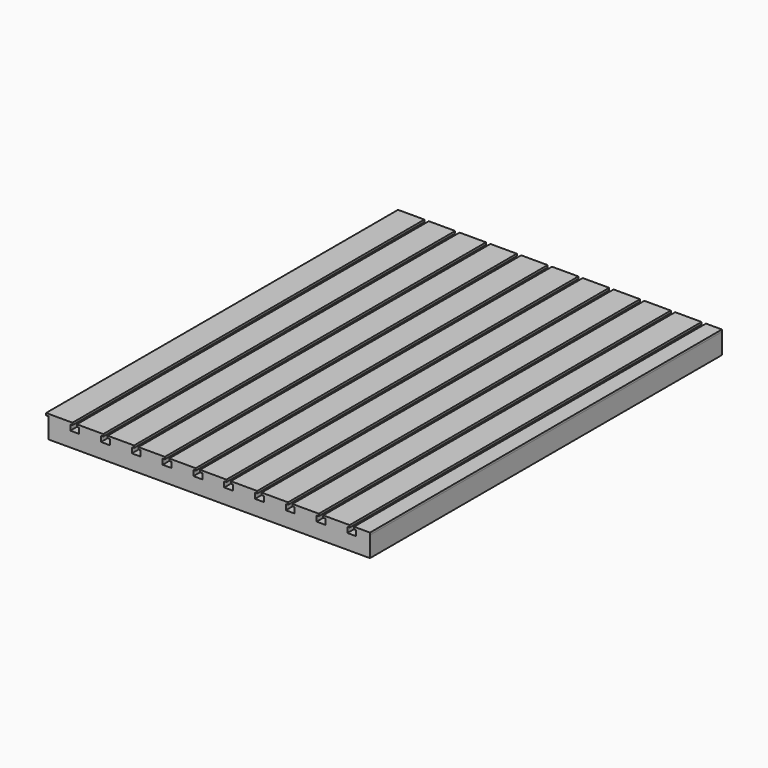
from build123d import *

# Parameters (mm, degrees)
F0_W     = 585
F0_H     = 800
F1_DEPTH = 37
F2_W     = 16
F2_H     = 800
F3_DEPTH = 10
F4_W     = 48
F4_H     = 800
F4_W_2   = 29.018198
F5_DEPTH = 4


with BuildPart() as f1:
    # F0 (on Top) → F1 (new body)
    with BuildSketch(Plane.XY):
        with Locations((-253.387954, 326.668771)):
            Rectangle(F0_W, F0_H)
    extrude(amount=F1_DEPTH)

    # F2 (on face) → F3 (cut)
    with BuildSketch(Plane.XY.offset(37)):
        with Locations((-497.887954, 326.668771)):
            Rectangle(F2_W, F2_H)
        with Locations((-441.887954, 326.668771)):
            Rectangle(F2_W, F2_H)
        with Locations((-385.887954, 326.668771)):
            Rectangle(F2_W, F2_H)
        with Locations((-329.887954, 326.668771)):
            Rectangle(F2_W, F2_H)
        with Locations((-273.887954, 326.668771)):
            Rectangle(F2_W, F2_H)
        with Locations((-217.887954, 326.668771)):
            Rectangle(F2_W, F2_H)
        with Locations((-161.887954, 326.668771)):
            Rectangle(F2_W, F2_H)
        with Locations((-105.887954, 326.668771)):
            Rectangle(F2_W, F2_H)
        with Locations((-49.887954, 326.668771)):
            Rectangle(F2_W, F2_H)
        with Locations((6.112046, 326.668771)):
            Rectangle(F2_W, F2_H)
    extrude(amount=-F3_DEPTH, mode=Mode.SUBTRACT)

    # F4 (on face) → F5 (join)
    with BuildSketch(Plane.XY.offset(37)):
        with Locations((-525.887954, 326.668771)):
            Rectangle(F4_W, F4_H)
        with Locations((-469.887954, 326.668771)):
            Rectangle(F4_W, F4_H)
        with Locations((-413.887954, 326.668771)):
            Rectangle(F4_W, F4_H)
        with Locations((-357.887954, 326.668771)):
            Rectangle(F4_W, F4_H)
        with Locations((-301.887954, 326.668771)):
            Rectangle(F4_W, F4_H)
        with Locations((-245.887954, 326.668771)):
            Rectangle(F4_W, F4_H)
        with Locations((-189.887954, 326.668771)):
            Rectangle(F4_W, F4_H)
        with Locations((-133.887954, 326.668771)):
            Rectangle(F4_W, F4_H)
        with Locations((-77.887954, 326.668771)):
            Rectangle(F4_W, F4_H)
        with Locations((-21.887954, 326.668771)):
            Rectangle(F4_W, F4_H)
        with Locations((24.621145, 326.668771)):
            Rectangle(F4_W_2, F4_H)
    extrude(amount=F5_DEPTH)


solid = f1.part
